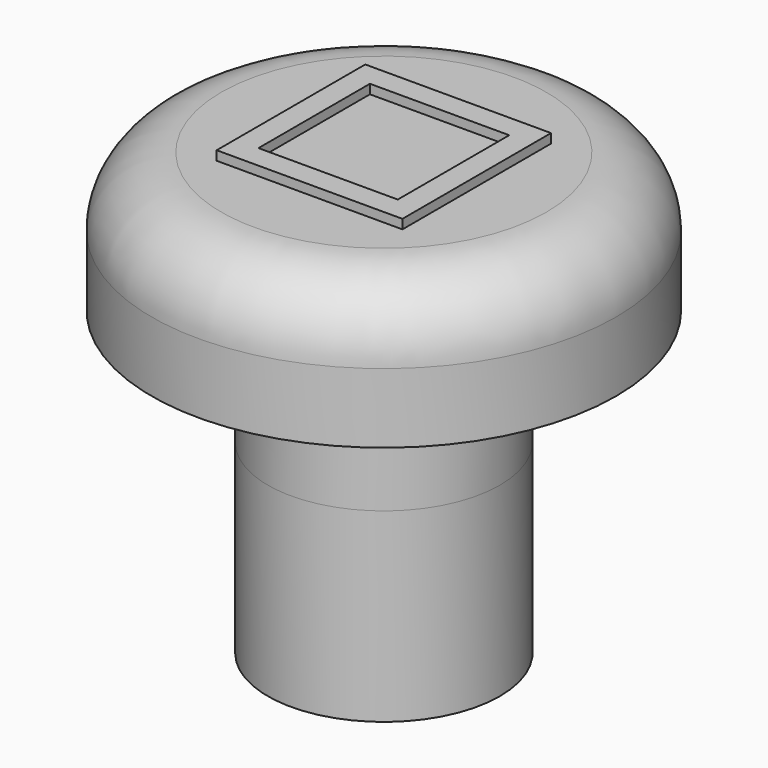
from build123d import *

# Parameters (mm, degrees)
SKETCH046_R     = 2.5
PAD023_DEPTH    = 2.5
SKETCH047_R     = 5
PAD024_DEPTH    = 3
FILLET003_R     = 1.5
SKETCH049_R     = 2.5
PAD025_DEPTH    = 4
SKETCH050_R     = 1.5
POCKET026_DEPTH = 4
SKETCH091_W     = 4
SKETCH091_H     = 4
SKETCH091_W_2   = 3
SKETCH091_H_2   = 3
PAD057_DEPTH    = 0.2


with BuildPart() as part:
    # Sketch046 → Pad023 (new body)
    with BuildSketch(Plane(origin=(0, 0, 30), x_dir=(1, 0, 0), z_dir=(0, 0, -1))):
        with Locations((101, 55)):
            Circle(SKETCH046_R)
    extrude(amount=-PAD023_DEPTH)

    # Sketch047 (on Face3 of Pad023) → Pad024 (join)
    with BuildSketch(Plane.XY.offset(32.5)):
        with Locations((101, -55)):
            Circle(SKETCH047_R)
    extrude(amount=PAD024_DEPTH)

    # Fillet003
    fillet003_edges = [part.edges().sort_by_distance(p)[0] for p in [
        (96, -55, 35.5),
    ]]
    fillet(fillet003_edges, radius=FILLET003_R)

    # Sketch049 → Pad025 (join)
    with BuildSketch(Plane(origin=(0, 0, 30), x_dir=(1, 0, 0), z_dir=(0, 0, -1))):
        with Locations((101, 55)):
            Circle(SKETCH049_R)
    extrude(amount=PAD025_DEPTH)

    # Sketch050 (on Face17 of Pad025) → Pocket026 (cut)
    with BuildSketch(Plane(origin=(0, 0, 26), x_dir=(1, 0, 0), z_dir=(0, 0, -1))):
        with Locations((101, 55)):
            Circle(SKETCH050_R)
    extrude(amount=-POCKET026_DEPTH, mode=Mode.SUBTRACT)


with BuildPart() as part_1:
    # Body002 placement: moved
    add(part.part.moved(Location((75, 0, 0))))

    # Sketch091 (on Face4 of Clone005) → Pad057 (new body)
    with BuildSketch(Plane(origin=(75, 0, 35.5), x_dir=(1, 0, 0), z_dir=(0, 0, 1))):
        with Locations((101, -55)):
            Rectangle(SKETCH091_W, SKETCH091_H)
        with Locations((101, -55)):
            Rectangle(SKETCH091_W_2, SKETCH091_H_2, mode=Mode.SUBTRACT)
    extrude(amount=PAD057_DEPTH)


with BuildPart() as part_2:
    # Body014 placement: moved
    add(part_1.part.moved(Location((-64.5, 33.5, 0))))


solid = part_2.part
